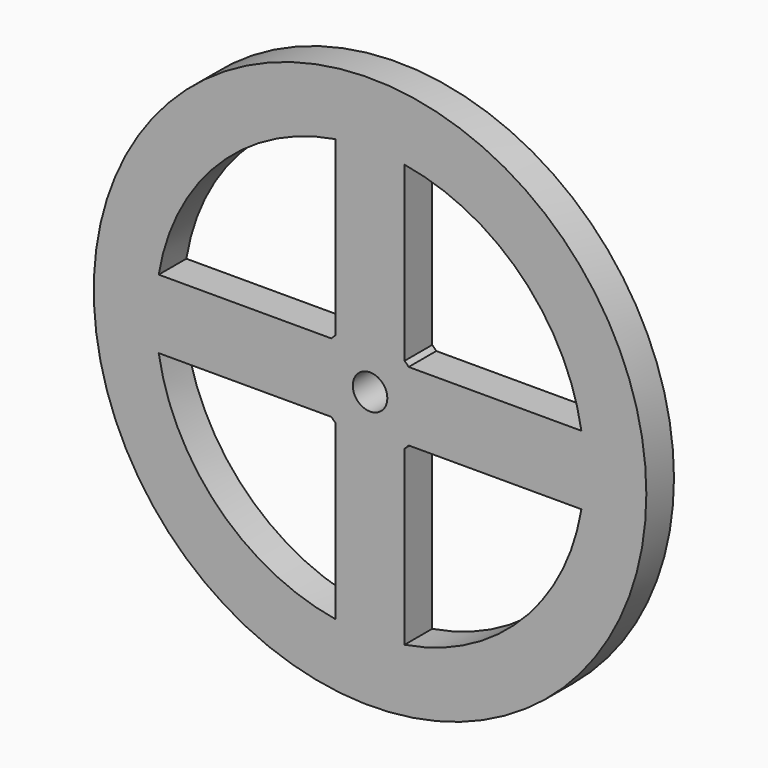
from build123d import *

# Parameters (mm, degrees)
F0_R     = 40
F0_R_2   = 2.5
F1_DEPTH = 2.5


with BuildPart() as f1:
    # F0 (on Front) → F1 (new body, symmetric)
    with BuildSketch(Plane.XZ):
        Circle(F0_R)
        with BuildLine():
            ThreePointArc((-5, -30.594117), (-21.92031, -21.92031), (-30.594117, -5))
            Line((-30.594117, -5), (-5.59017, -5))
            ThreePointArc((-5.59017, -5), (-5.303301, -5.303301), (-5, -5.59017))
            Line((-5, -5.59017), (-5, -30.594117))
        make_face(mode=Mode.SUBTRACT)
        with BuildLine():
            Line((5, -30.594117), (5, -5.59017))
            ThreePointArc((5, -5.59017), (5.303301, -5.303301), (5.59017, -5))
            Line((5.59017, -5), (30.594117, -5))
            ThreePointArc((30.594117, -5), (21.92031, -21.92031), (5, -30.594117))
        make_face(mode=Mode.SUBTRACT)
        with BuildLine():
            Line((-5, 30.594117), (-5, 5.59017))
            ThreePointArc((-5, 5.59017), (-5.303301, 5.303301), (-5.59017, 5))
            Line((-5.59017, 5), (-30.594117, 5))
            ThreePointArc((-30.594117, 5), (-21.92031, 21.92031), (-5, 30.594117))
        make_face(mode=Mode.SUBTRACT)
        Circle(F0_R_2, mode=Mode.SUBTRACT)
        with BuildLine():
            Line((30.594117, 5), (5.59017, 5))
            ThreePointArc((5.59017, 5), (5.303301, 5.303301), (5, 5.59017))
            Line((5, 5.59017), (5, 30.594117))
            ThreePointArc((5, 30.594117), (21.92031, 21.92031), (30.594117, 5))
        make_face(mode=Mode.SUBTRACT)
    extrude(amount=F1_DEPTH, both=True)


solid = f1.part
